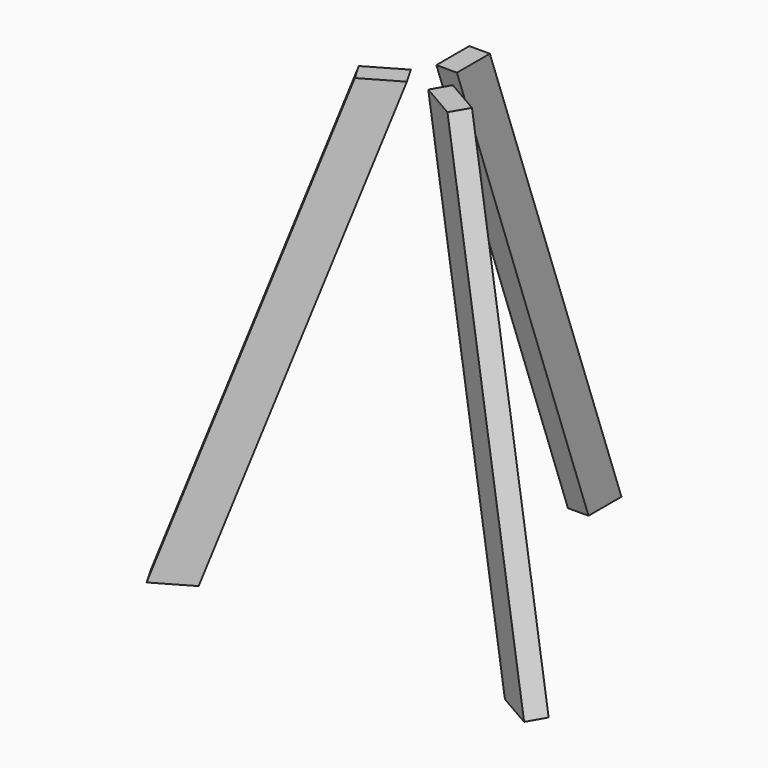
from build123d import *

# Parameters (mm, degrees)
F3_W = 45
F3_H = 90
F1_W = 45
F1_H = 90


with BuildPart() as f4:
    # F3 (on offset) → F4 section 0
    with BuildSketch(Plane.XY.offset(1025)):
        with Locations((0, 85)):
            Rectangle(F3_W, F3_H)
    # F1 (on offset) → F4 section 1
    with BuildSketch(Plane.XY.offset(25)):
        with Locations((0, 445)):
            Rectangle(F1_W, F1_H)
    loft()


with BuildPart() as f5:
    # F3 (on offset) → F5 section 0
    with BuildSketch(Plane.XY.offset(1025)):
        Polygon((101.333302, -84.485572), (123.833302, -45.514428), (45.891016, -0.514428), (23.391016, -39.485572), align=None)
    # F1 (on offset) → F5 section 1
    with BuildSketch(Plane.XY.offset(25)):
        Polygon((335.160162, -219.485572), (413.102448, -264.485572), (435.602448, -225.514428), (357.660162, -180.514428), align=None)
    loft()


with BuildPart() as f6:
    # F3 (on offset) → F6 section 0
    with BuildSketch(Plane.XY.offset(1025)):
        Polygon((-123.833302, -45.514428), (-101.333302, -84.485572), (-23.391016, -39.485572), (-45.891016, -0.514428), align=None)
    # F1 (on offset) → F6 section 1
    with BuildSketch(Plane.XY.offset(25)):
        Polygon((-357.660162, -180.514428), (-435.602448, -225.514428), (-413.102448, -264.485572), (-335.160162, -219.485572), align=None)
    loft()


solid = Compound([f4.part, f5.part, f6.part])
